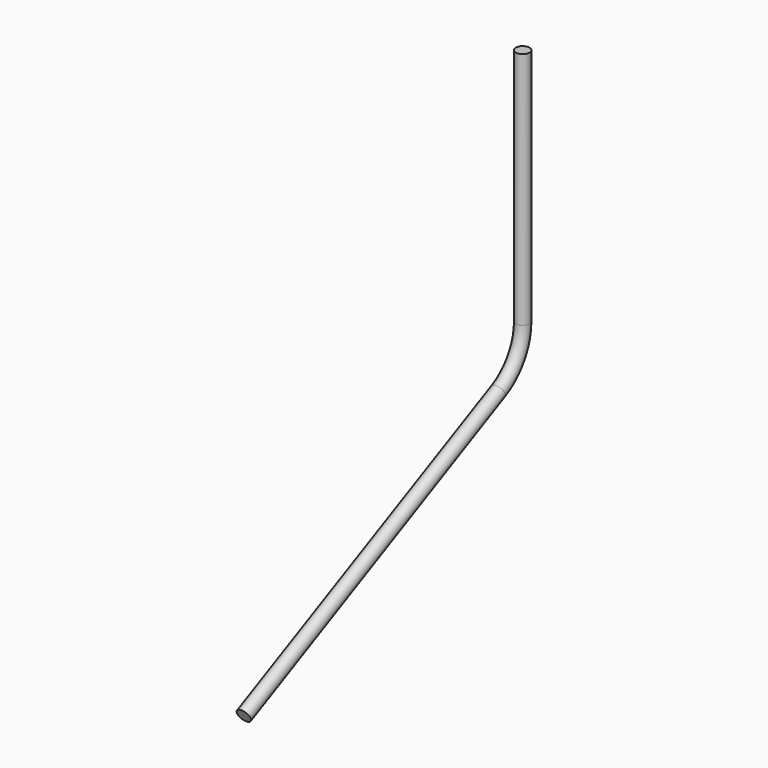
from build123d import *

# Parameters (mm, degrees)
F2_R = 12.5


with BuildPart() as f3:
    # F3: sweep along a path in F0
    with BuildLine(Plane.YZ) as f3_path:
        Line((0, 794.556046), (0, 356.779423))
        ThreePointArc((0, 356.779423), (-15.094779, 303.948527), (-55.82207, 267.067046))
        Line((-55.82207, 267.067046), (-638.952519, -20.089496))
    # F2 (on face) → F3 (sweep)
    with BuildSketch(Plane(origin=(0, 0, 794.556046), x_dir=(1, 0, 0), z_dir=(0, 0, -1))):
        Circle(F2_R)
    sweep(path=f3_path.line)


solid = f3.part
